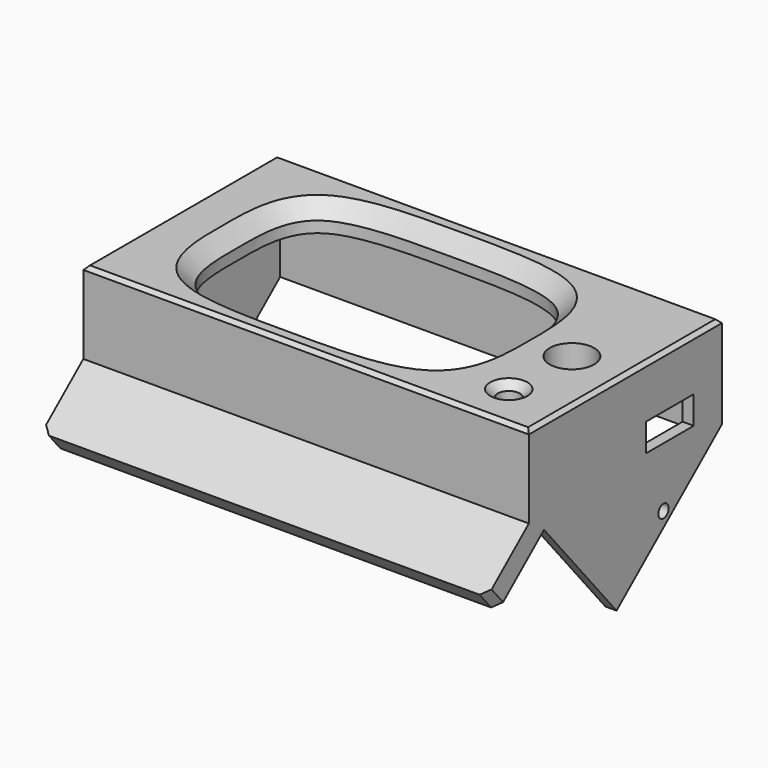
from build123d import *

# Parameters (mm, degrees)
SKETCH_W        = 120
SKETCH_H        = 65
PAD_DEPTH       = 25
SKETCH004_R     = 3
POCKET001_DEPTH = 25.001
SKETCH001_R     = 6
POCKET_DEPTH    = 25.001
SKETCH005_W     = 114
SKETCH005_H     = 60
POCKET002_DEPTH = 18
CHAMFER_SIZE    = 4
SKETCH006_R     = 3.5
PAD001_DEPTH    = 4.5
SKETCH007_R     = 1.4
POCKET003_DEPTH = 8
SKETCH008_W     = 16
SKETCH008_H     = 6.5
POCKET004_DEPTH = 9
SKETCH009_W     = 28
SKETCH009_H     = 4
POCKET005_DEPTH = 5
PAD002_DEPTH    = 120
SKETCH015_W     = 114
SKETCH015_H     = 60
POCKET006_DEPTH = 47
SKETCH016_W     = 16
SKETCH016_H     = 7.5
POCKET007_DEPTH = 9
CHAMFER001_SIZE = 2
SKETCH022_R     = 1.75
POCKET010_DEPTH = 120.001
CHAMFER005_SIZE = 2
CHAMFER006_SIZE = 2
SKETCH023_R     = 6.5
POCKET011_DEPTH = 2.3
CHAMFER007_SIZE = 1


with BuildPart() as part:
    # Sketch → Pad (new body)
    with BuildSketch(Plane.XY):
        with Locations((7, 0)):
            Rectangle(SKETCH_W, SKETCH_H)
        with BuildLine():
            add(Edge.make_bspline(
                [(0, 25.038668), (-12.580271, 25.038668), (-37.740814, 25.116003), (-37.5, 0), (-37.740814, -25.116003), (0, -25), (37.740814, -25.116003), (37.5, 0), (37.740814, 25.116003), (12.580271, 25.038668), (0, 25.038668)],
                knots=[0, 0, 0, 0, 0.125, 0.25, 0.375, 0.5, 0.625, 0.75, 0.875, 1, 1, 1, 1], degree=3))
        make_face(mode=Mode.SUBTRACT)
    extrude(amount=PAD_DEPTH)

    # Sketch004 → Pocket001 (cut, through all)
    with BuildSketch(Plane(origin=(0, 0, 0), x_dir=(1, 0, 0), z_dir=(0, 0, -1))):
        with Locations((52, 20.5)):
            Circle(SKETCH004_R)
    extrude(amount=-POCKET001_DEPTH, mode=Mode.SUBTRACT)

    # Sketch001 (on Face5 of Pocket001) → Pocket (cut, through all)
    with BuildSketch(Plane.XY.offset(25)):
        with Locations((53, -0.5)):
            Circle(SKETCH001_R)
    extrude(amount=-POCKET_DEPTH, mode=Mode.SUBTRACT)

    # Sketch005 (on Face4 of Pocket) → Pocket002 (cut)
    with BuildSketch(Plane(origin=(0, 0, 0), x_dir=(1, 0, 0), z_dir=(0, 0, -1))):
        with Locations((7, 0)):
            Rectangle(SKETCH005_W, SKETCH005_H)
    extrude(amount=-POCKET002_DEPTH, mode=Mode.SUBTRACT)

    # Chamfer
    chamfer_edges = [part.edges().sort_by_distance(p)[0] for p in [
        (0, -25.038668, 25),
    ]]
    chamfer(chamfer_edges, length=CHAMFER_SIZE)

    # Sketch006 (on Face11 of Chamfer) → Pad001 (join)
    with BuildSketch(Plane(origin=(0, 0, 18), x_dir=(1, 0, 0), z_dir=(0, 0, -1))):
        with Locations((-45.5, 25)):
            Circle(SKETCH006_R)
        with Locations((-45.5, -25)):
            Circle(SKETCH006_R)
        with Locations((58.5, -25)):
            Circle(SKETCH006_R)
        with Locations((58.5, 25)):
            Circle(SKETCH006_R)
    extrude(amount=PAD001_DEPTH)

    # Sketch007 (on Face22 of Pad001) → Pocket003 (cut)
    with BuildSketch(Plane(origin=(0, 0, 13.5), x_dir=(1, 0, 0), z_dir=(0, 0, -1))):
        with Locations((-45.5, 25)):
            Circle(SKETCH007_R)
        with Locations((58.5, 25)):
            Circle(SKETCH007_R)
        with Locations((58.5, -25)):
            Circle(SKETCH007_R)
        with Locations((-45.5, -25)):
            Circle(SKETCH007_R)
    extrude(amount=-POCKET003_DEPTH, mode=Mode.SUBTRACT)

    # Sketch008 (on Face5 of Pocket003) → Pocket004 (cut)
    with BuildSketch(Plane.YZ.offset(67)):
        with Locations((15, 3.25)):
            Rectangle(SKETCH008_W, SKETCH008_H)
    extrude(amount=-POCKET004_DEPTH, mode=Mode.SUBTRACT)

    # Sketch009 (on Face4 of Pocket004) → Pocket005 (cut)
    with BuildSketch(Plane(origin=(-53, 0, 0), x_dir=(0, -1, 0), z_dir=(-1, 0, 0))):
        with Locations((0, 10.5)):
            Rectangle(SKETCH009_W, SKETCH009_H)
    extrude(amount=-POCKET005_DEPTH, mode=Mode.SUBTRACT)

    # Sketch010 (on Face4 of Pocket005) → Pad002 (join)
    with BuildSketch(Plane(origin=(-53, 0, 0), x_dir=(0, -1, 0), z_dir=(-1, 0, 0))):
        Polygon((2.976444, -29.768271), (27.402373, -0.658582), (42.723262, -13.514335), (46.579988, -8.918068), (27.480858, 7.108005), (-32.5, 7.108005), (-32.5, 0), align=None)
    extrude(amount=-PAD002_DEPTH)

    # Sketch015 → Pocket006 (cut)
    with BuildSketch(Plane(origin=(0, 0, 13.5), x_dir=(1, 0, 0), z_dir=(0, 0, -1))):
        with Locations((7, 0)):
            Rectangle(SKETCH015_W, SKETCH015_H)
    extrude(amount=POCKET006_DEPTH, mode=Mode.SUBTRACT)

    # Sketch016 (on Face5 of Pocket006) → Pocket007 (cut)
    with BuildSketch(Plane.YZ.offset(67)):
        with Locations((15, 7.25)):
            Rectangle(SKETCH016_W, SKETCH016_H)
    extrude(amount=-POCKET007_DEPTH, mode=Mode.SUBTRACT)

    # Chamfer001
    chamfer001_edges = [part.edges().sort_by_distance(p)[0] for p in [
        (49, -20.5, 25),
    ]]
    chamfer(chamfer001_edges, length=CHAMFER001_SIZE)

    # Sketch022 (on Face25 of Chamfer001) → Pocket010 (cut, through all)
    with BuildSketch(Plane(origin=(-53, 0, 0), x_dir=(0, -1, 0), z_dir=(-1, 0, 0))):
        with Locations((-12.833415, -12.586002)):
            Circle(SKETCH022_R)
    extrude(amount=-POCKET010_DEPTH, mode=Mode.SUBTRACT)

    # Chamfer005
    chamfer005_edges = [part.edges().sort_by_distance(p)[0] for p in [
        (67, -44.651625, -11.216201),
    ]]
    chamfer(chamfer005_edges, length=CHAMFER005_SIZE)

    # Chamfer006
    chamfer006_edges = [part.edges().sort_by_distance(p)[0] for p in [
        (-53, -44.651625, -11.216201),
    ]]
    chamfer(chamfer006_edges, length=CHAMFER006_SIZE)

    # Sketch023 (on Face8 of Chamfer006) → Pocket011 (cut)
    with BuildSketch(Plane(origin=(0, -10.997712, 13.106563), x_dir=(1, 0, 0), z_dir=(0, 0.642788, -0.766044))):
        with Locations((-37, 32)):
            Circle(SKETCH023_R)
        with Locations((37, 32)):
            Circle(SKETCH023_R)
    extrude(amount=-POCKET011_DEPTH, mode=Mode.SUBTRACT)

    # Chamfer007
    chamfer007_edges = [part.edges().sort_by_distance(p)[0] for p in [
        (7, 32.5, 25),
        (67, 0, 25),
        (7, -32.5, 25),
        (-53, 0, 25),
    ]]
    chamfer(chamfer007_edges, length=CHAMFER007_SIZE)


solid = part.part
